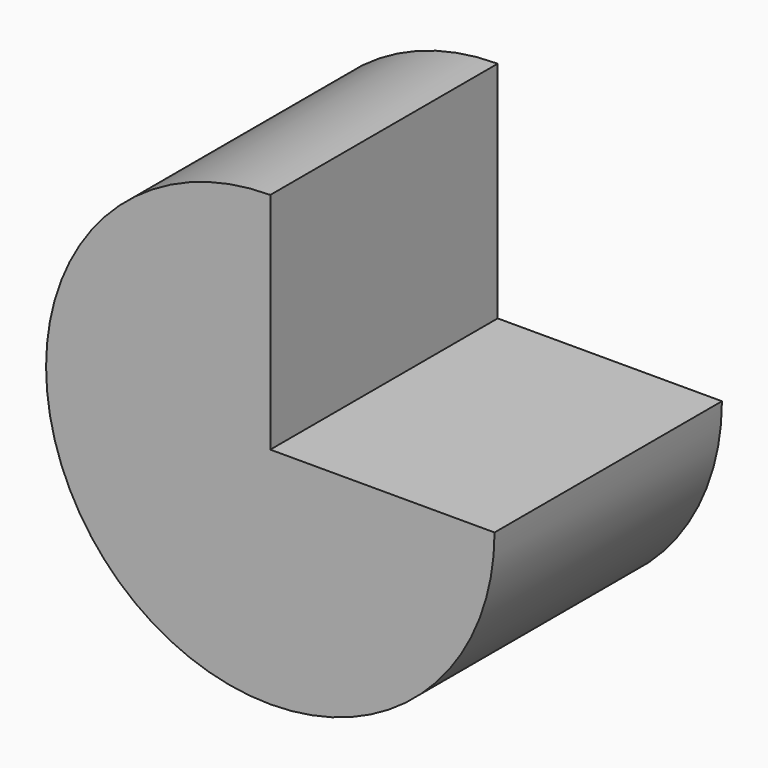
from build123d import *

# Parameters (mm, degrees)
F1_DEPTH = 25.4


with BuildPart() as f1:
    # F0 (on Front) → F1 (new body)
    with BuildSketch(Plane.XZ):
        with BuildLine():
            ThreePointArc((-20.038368, -72.753239), (-14.169266, -86.922505), (0, -92.791607))
            ThreePointArc((0, -92.791607), (14.169266, -86.922505), (20.038368, -72.753239))
            Line((20.038368, -72.753239), (0, -72.753239))
            Line((0, -72.753239), (0, -52.714872))
            ThreePointArc((0, -52.714872), (-14.169266, -58.583974), (-20.038368, -72.753239))
        make_face()
    extrude(amount=F1_DEPTH)


solid = f1.part
